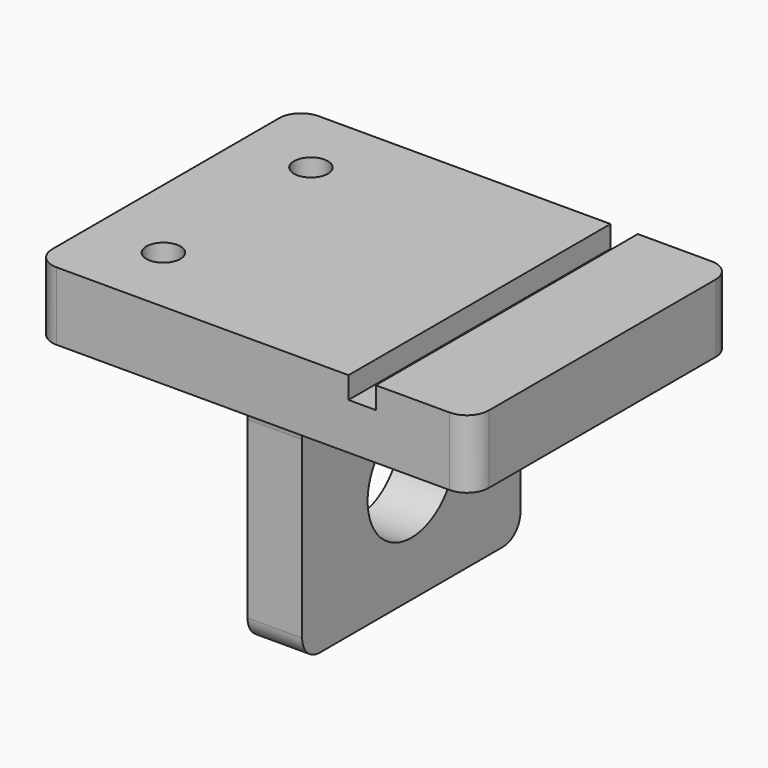
from build123d import *

# Parameters (mm, degrees)
F0_W     = 101.6
F0_H     = 76.2
F0_R     = 3.9624
F0_W_2   = 12.7
F0_H_2   = 63.5
F1_DEPTH = 15.875
F2_DEPTH = 66.675
F3_W     = 6.35
F3_H     = 76.2
F4_DEPTH = 5.08
F5_R     = 12.7
F6_DEPTH = 25.4
F7_R     = 5.08


with BuildPart() as f1:
    # F0 (on Top) → F1 (new body)
    with BuildSketch(Plane.XY):
        Rectangle(F0_W, F0_H)
        with Locations((-34.163, -21.463)):
            Circle(F0_R, mode=Mode.SUBTRACT)
        Rectangle(F0_W_2, F0_H_2, mode=Mode.SUBTRACT)
        with Locations((-34.163, 21.463)):
            Circle(F0_R, mode=Mode.SUBTRACT)
    extrude(amount=-F1_DEPTH)

    # F0 (on Top) → F2 (join)
    with BuildSketch(Plane.XY):
        Rectangle(F0_W_2, F0_H_2)
    extrude(amount=-F2_DEPTH)

    # F3 (on face) → F4 (cut)
    with BuildSketch(Plane.XY):
        with Locations((25.4, 0)):
            Rectangle(F3_W, F3_H)
    extrude(amount=-F4_DEPTH, mode=Mode.SUBTRACT)

    # F5 (on face) → F6 (cut)
    with BuildSketch(Plane.YZ.offset(6.35)):
        with Locations((0, -41.275)):
            Circle(F5_R)
    extrude(amount=-F6_DEPTH, mode=Mode.SUBTRACT)

    # F7 (call 1 of 8: OpenCascade refuses the feature's edges together)
    f7_edges = [f1.edges().sort_by_distance(p)[0] for p in [
        (50.8, -38.1, -7.9375),
    ]]
    fillet(f7_edges, radius=F7_R)

    # F7#2 (call 2 of 8)
    f7_2_edges = [f1.edges().sort_by_distance(p)[0] for p in [
        (50.8, 38.1, -7.9375),
    ]]
    fillet(f7_2_edges, radius=F7_R)

    # F7#3 (call 3 of 8)
    f7_3_edges = [f1.edges().sort_by_distance(p)[0] for p in [
        (-50.8, 38.1, -7.9375),
    ]]
    fillet(f7_3_edges, radius=F7_R)

    # F7#4 (call 4 of 8)
    f7_4_edges = [f1.edges().sort_by_distance(p)[0] for p in [
        (-50.8, -38.1, -7.9375),
    ]]
    fillet(f7_4_edges, radius=F7_R)

    # F7#5 (call 5 of 8)
    f7_5_edges = [f1.edges().sort_by_distance(p)[0] for p in [
        (0, -31.75, -66.675),
    ]]
    fillet(f7_5_edges, radius=F7_R)

    # F7#6 (call 6 of 8)
    f7_6_edges = [f1.edges().sort_by_distance(p)[0] for p in [
        (0, 31.75, -66.675),
    ]]
    fillet(f7_6_edges, radius=F7_R)

    # F7#7 (call 7 of 8)
    f7_7_edges = [f1.edges().sort_by_distance(p)[0] for p in [
        (0, -31.75, -15.875),
    ]]
    fillet(f7_7_edges, radius=F7_R)

    # F7#8 (call 8 of 8)
    f7_8_edges = [f1.edges().sort_by_distance(p)[0] for p in [
        (0, 31.75, -15.875),
    ]]
    fillet(f7_8_edges, radius=F7_R)


solid = f1.part
